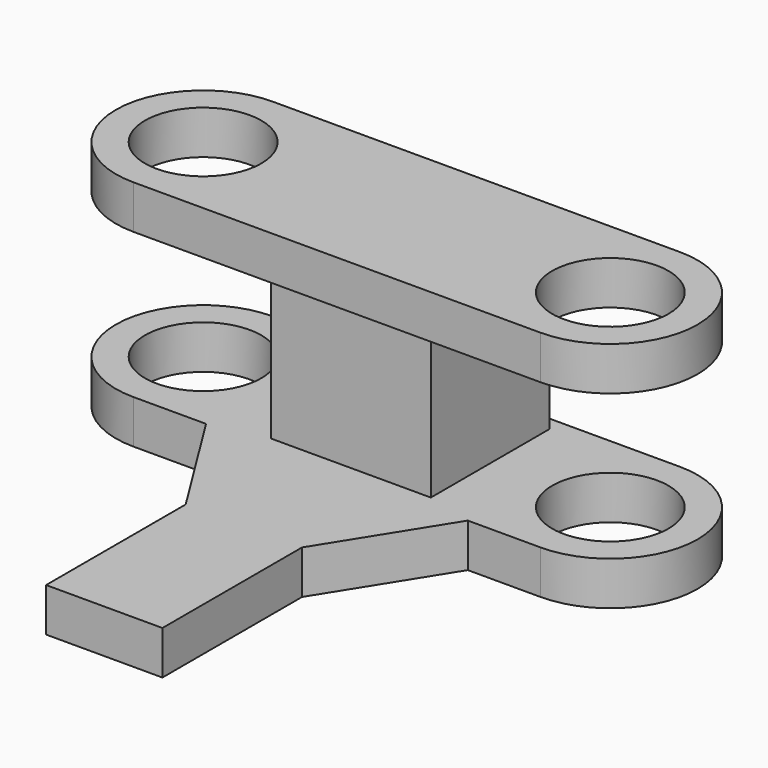
from build123d import *

# Parameters (mm, degrees)
F0_R     = 5.08
F0_W     = 10.16
F0_H     = 15.24
F1_DEPTH = 3.81
F2_W     = 13.9550012536
F2_H     = 12.9558886401
F3_DEPTH = 12.7
F4_R     = 5.08
F5_DEPTH = 3.81


with BuildPart() as f1:
    # F0 (on Top) → F1 (new body)
    with BuildSketch(Plane.XY):
        with BuildLine():
            Line((17.78, 7.5147451945), (-17.78, 7.5147451945))
            ThreePointArc((-17.78, 7.5147451945), (-25.4, -0.1052548055), (-17.78, -7.7252548055))
            Line((-17.78, -7.7252548055), (-11.43, -7.7252548055))
            Line((-11.43, -7.7252548055), (-5.08, -7.7252548055))
            Line((-5.08, -7.7252548055), (0, -7.7252548055))
            Line((0, -7.7252548055), (5.08, -7.7252548055))
            Line((5.08, -7.7252548055), (11.43, -7.7252548055))
            Line((11.43, -7.7252548055), (17.78, -7.7252548055))
            ThreePointArc((17.78, -7.7252548055), (25.4, -0.1052548055), (17.78, 7.5147451945))
        make_face()
        with Locations((-17.78, -0.1052548055)):
            Circle(F0_R, mode=Mode.SUBTRACT)
        with Locations((17.78, -0.1052548055)):
            Circle(F0_R, mode=Mode.SUBTRACT)
        Polygon((-5.08, -7.7252548055), (-11.43, -7.7252548055), (-5.08, -17.8852548055), align=None)
        Polygon((5.08, -17.8852548055), (11.43, -7.7252548055), (5.08, -7.7252548055), align=None)
        Polygon((0, -7.7252548055), (-5.08, -7.7252548055), (-5.08, -17.8852548055), (5.08, -17.8852548055), (5.08, -7.7252548055), align=None)
        with Locations((0, -25.5052548055)):
            Rectangle(F0_W, F0_H)
    extrude(amount=F1_DEPTH)

    # F2 (on face) → F3 (join)
    with BuildSketch(Plane.XY.offset(3.81)):
        with Locations((0.3611810971, -0.169222476)):
            Rectangle(F2_W, F2_H)
    extrude(amount=F3_DEPTH)

    # F4 (on face) → F5 (join)
    with BuildSketch(Plane.XY.offset(16.51)):
        with BuildLine():
            Line((17.78, 7.5147451945), (-17.78, 7.5147451945))
            ThreePointArc((-17.78, 7.5147451945), (-25.4, -0.1052548055), (-17.78, -7.7252548055))
            Line((-17.78, -7.7252548055), (-11.43, -7.7252548055))
            Line((-11.43, -7.7252548055), (11.43, -7.7252548055))
            Line((11.43, -7.7252548055), (17.78, -7.7252548055))
            ThreePointArc((17.78, -7.7252548055), (25.4, -0.1052548055), (17.78, 7.5147451945))
        make_face()
        with Locations((-17.78, -0.1052548055)):
            Circle(F4_R, mode=Mode.SUBTRACT)
        with Locations((17.78, -0.1052548055)):
            Circle(F4_R, mode=Mode.SUBTRACT)
    extrude(amount=F5_DEPTH)


solid = f1.part
